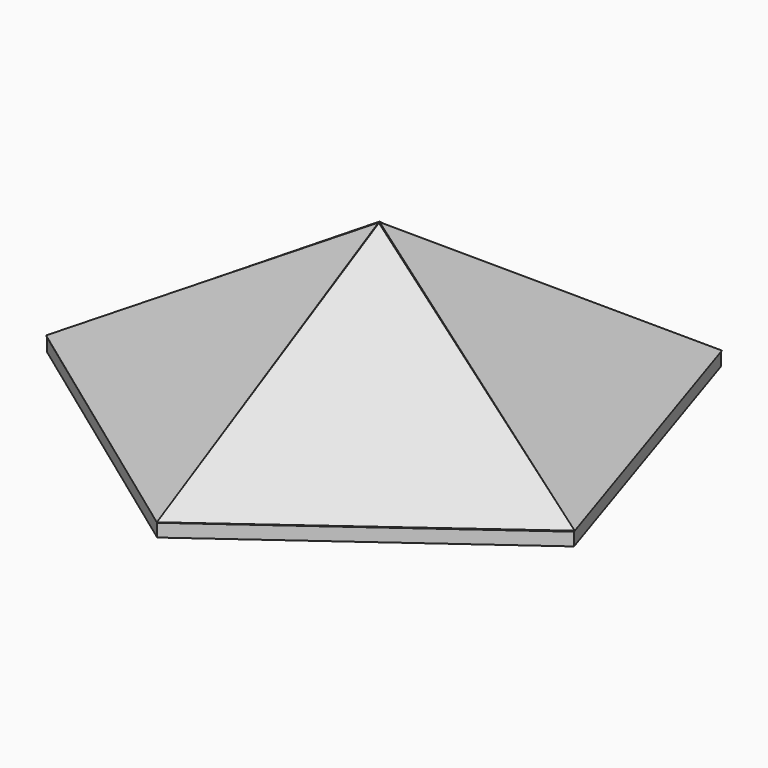
from build123d import *

# Parameters (mm, degrees)
F2_DEPTH  = 4.2545413598
F5_DEPTH  = 0.3587389365
F8_DEPTH  = 0.1960992813
F11_DEPTH = 0.3024535254
F14_DEPTH = 0.1778
F17_DEPTH = 0.0334326178


with BuildPart() as f2:
    # F0 (on Top) → F2 (new body)
    with BuildSketch(Plane.XY):
        Polygon((53.4142809913, 73.5184506514), (-53.4142809913, 73.5184506514), (-86.4261221286, -28.0815493486), (0, -90.8738026056), (86.4261221286, -28.0815493486), align=None)
    extrude(amount=F2_DEPTH)

    # F4 (on 3pt) → F5 (join, symmetric)
    with BuildSketch(Plane(origin=(23.7425291693, 7.7144153655, 37.0077433631), x_dir=(0.846833405, -0.1085350065, -0.520666243), z_dir=(-0.5318582369, -0.1728112168, -0.8290133287))):
        Polygon((35.0384758647, -71.1031740968), (74.0211623564, 28.3588377929), (-28.0368358517, 10.9886293416), align=None)
    extrude(amount=F5_DEPTH, both=True)

    # F7 (on 3pt) → F8 (join, symmetric)
    with BuildSketch(Plane(origin=(0, 24.9643725294, 37.0077433631), x_dir=(1, 0, 0), z_dir=(0, 0.5592288448, 0.8290133287))):
        Polygon((-53.4142809913, 58.5685132451), (0, -30.1133548344), (52.9031708732, 58.1516309892), align=None)
    extrude(amount=F8_DEPTH, both=True)

    # F10 (on 3pt) → F11 (join, symmetric)
    with BuildSketch(Plane(origin=(-23.7456803515, 7.6478996148, 37.0508984455), x_dir=(0.8469836407, 0.1074690606, 0.5206429808), z_dir=(-0.5316189542, 0.1712213899, 0.829496548))):
        Polygon((28.3586875702, -10.8850114597), (-35.0285403577, 71.2150277695), (-74.0043122048, -28.3618426374), align=None)
    extrude(amount=F11_DEPTH, both=True)

    # F13 (on 3pt) → F14 (join, symmetric)
    with BuildSketch(Plane(origin=(-14.577458087, -20.2329200989, 37.0742924091), x_dir=(0.9452809148, -0.1562921012, 0.2863857037), z_dir=(0.326257555, 0.4528322429, -0.8297583791))):
        Polygon((15.4212973722, 77.7300213038), (-76.177835544, 22.4459505142), (15.4212973722, -25.7956235379), align=None)
    extrude(amount=F14_DEPTH, both=True)

    # F16 (on 3pt) → F17 (join, symmetric)
    with BuildSketch(Plane(origin=(14.5975010179, -20.1923607026, 37.1261227834), x_dir=(0.9452047993, 0.1559877585, -0.2868025567), z_dir=(-0.3264780044, 0.451608917, -0.8303381833))):
        Polygon((76.1945129995, 22.4395914936), (-15.5051155282, 77.797770988), (-15.4437440737, -25.7280083439), align=None)
    extrude(amount=F17_DEPTH, both=True)


solid = f2.part
